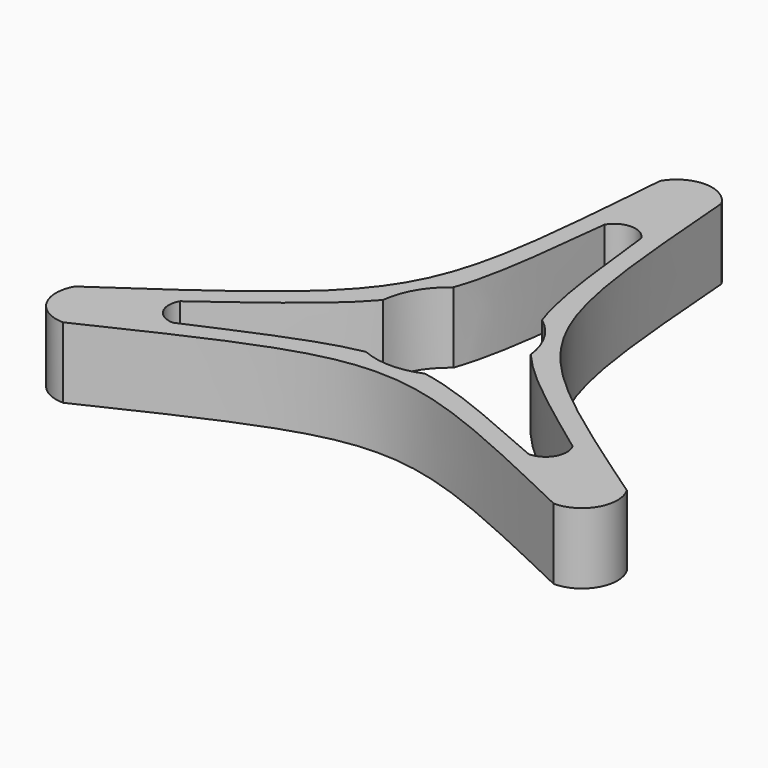
from build123d import *

# Parameters (mm, degrees)
F1_DEPTH = 10


with BuildPart() as f1:
    # F0 (on Top) → F1 (new body)
    with BuildSketch(Plane.XY):
        with BuildLine():
            add(Edge.make_bspline(
                [(4.330127, 42.5), (7.361216, 4.25), (7.361216, 4.25), (38.971143, -17.5)],
                knots=[0, 0, 0, 0, 69.282032, 69.282032, 69.282032, 69.282032], degree=3))
            ThreePointArc((4.330127, 42.5), (0, 45), (-4.330127, 42.5))
            add(Edge.make_bspline(
                [(-38.971143, -17.5), (-7.361216, 4.25), (-7.361216, 4.25), (-4.330127, 42.5)],
                knots=[0, 0, 0, 0, 69.282032, 69.282032, 69.282032, 69.282032], degree=3))
            ThreePointArc((-38.971143, -17.5), (-38.971143, -22.5), (-34.641016, -25))
            add(Edge.make_bspline(
                [(-34.641016, -25), (0, -8.5), (0, -8.5), (34.641016, -25)],
                knots=[0, 0, 0, 0, 69.282032, 69.282032, 69.282032, 69.282032], degree=3))
            ThreePointArc((34.641016, -25), (38.971143, -22.5), (38.971143, -17.5))
        make_face()
        with BuildLine():
            ThreePointArc((-10.429305, 1.216389), (-9.093267, 5.25), (-6.268076, 8.423848))
            add(Edge.make_bspline(
                [(-2.598076, 30.5), (-3.784006, 19.838289), (-4.505935, 13.348031), (-6.268076, 8.423848)],
                knots=[0, 0, 0, 0, 19.652555, 19.652555, 19.652555, 19.652555], degree=3))
            ThreePointArc((-2.598076, 30.5), (0, 32), (2.598076, 30.5))
            add(Edge.make_bspline(
                [(2.598076, 30.5), (3.784006, 19.838289), (4.505935, 13.34803), (6.268076, 8.423848)],
                knots=[0, 0, 0, 0, 19.652555, 19.652555, 19.652555, 19.652555], degree=3))
            ThreePointArc((6.268076, 8.423848), (9.093267, 5.25), (10.429305, 1.216389))
            add(Edge.make_bspline(
                [(10.429305, 1.216389), (13.812701, -2.771761), (19.072465, -6.642099), (27.712813, -13)],
                knots=[30.576918, 30.576918, 30.576918, 30.576918, 50.229473, 50.229473, 50.229473, 50.229473], degree=3))
            ThreePointArc((27.712813, -13), (27.712813, -16), (25.114737, -17.5))
            add(Edge.make_bspline(
                [(25.114737, -17.5), (15.288459, -13.19619), (9.306766, -10.576269), (4.161228, -9.640237)],
                knots=[0, 0, 0, 0, 19.652555, 19.652555, 19.652555, 19.652555], degree=3))
            ThreePointArc((4.161228, -9.640237), (0, -10.5), (-4.161228, -9.640237))
            add(Edge.make_bspline(
                [(-4.161228, -9.640237), (-9.306766, -10.576269), (-15.288459, -13.19619), (-25.114737, -17.5)],
                knots=[30.576918, 30.576918, 30.576918, 30.576918, 50.229473, 50.229473, 50.229473, 50.229473], degree=3))
            ThreePointArc((-25.114737, -17.5), (-27.712813, -16), (-27.712813, -13))
            add(Edge.make_bspline(
                [(-10.429305, 1.216389), (-13.812701, -2.771761), (-19.072465, -6.642099), (-27.712813, -13)],
                knots=[30.576918, 30.576918, 30.576918, 30.576918, 50.229473, 50.229473, 50.229473, 50.229473], degree=3))
        make_face(mode=Mode.SUBTRACT)
    extrude(amount=F1_DEPTH)


solid = f1.part
